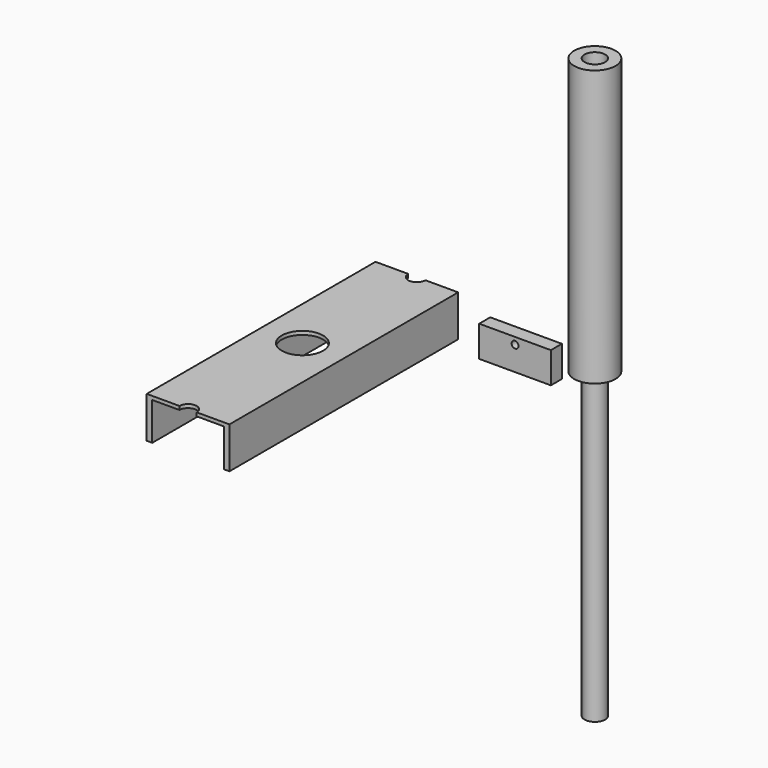
from build123d import *

# Parameters (mm, degrees)
F0_W     = 5.08
F0_H     = 3.302
F0_W_2   = 66.04
F0_H_2   = 34.798
F1_DEPTH = 263.525
F2_R     = 19.05
F3_DEPTH = 38.101
F4_W     = 66.04
F4_H     = 28.575
F4_R     = 3.175
F5_DEPTH = 12.7
F6_R     = 19.05
F6_R_2   = 9.525
F7_DEPTH = 254
F8_DEPTH = 6.35
F9_DEPTH = 279.4


with BuildPart() as f1:
    # F0 (on Front) → F1 (new body)
    with BuildSketch(Plane.XZ):
        with Locations((-124.0577634996, 54.2100830038)):
            Rectangle(F0_W, F0_H)
        with Locations((-88.4977634996, 54.2100830038)):
            Rectangle(F0_W_2, F0_H)
        with Locations((-124.0577634996, 35.1600830038)):
            Rectangle(F0_W, F0_H_2)
        with Locations((-52.9377634996, 35.1600830038)):
            Rectangle(F0_W, F0_H_2)
        with Locations((-52.9377634996, 54.2100830038)):
            Rectangle(F0_W, F0_H)
    extrude(amount=F1_DEPTH)

    # F2 (on face) → F3 (cut, through all)
    with BuildSketch(Plane.XY.offset(55.8610830038)):
        with Locations((-88.4977634996, -131.7625)):
            Circle(F2_R)
        with BuildLine():
            ThreePointArc((-96.4352634996, 0), (-88.4977634996, -7.9375), (-80.5602634996, 0))
            Line((-80.5602634996, 0), (-96.4352634996, 0))
        make_face()
        with BuildLine():
            Line((-96.4352634996, -263.525), (-80.5602634996, -263.525))
            ThreePointArc((-80.5602634996, -263.525), (-88.4977634996, -255.5875), (-96.4352634996, -263.525))
        make_face()
    extrude(amount=-F3_DEPTH, mode=Mode.SUBTRACT)


with BuildPart() as f5:
    # F4 (on Front) → F5 (new body)
    with BuildSketch(Plane.XZ):
        with Locations((12.147304602, 30.9224660316)):
            Rectangle(F4_W, F4_H)
        with Locations((12.147304602, 38.8599660316)):
            Circle(F4_R, mode=Mode.SUBTRACT)
    extrude(amount=F5_DEPTH)


with BuildPart() as f7:
    # F6 (on Top) → F7 (new body)
    with BuildSketch(Plane.XY):
        with Locations((36.3229177892, 49.0212365985)):
            Circle(F6_R)
        with Locations((36.3229177892, 49.0212365985)):
            Circle(F6_R_2, mode=Mode.SUBTRACT)
        with Locations((36.3229177892, 49.0212365985)):
            Circle(F6_R)
        with Locations((36.3229177892, 49.0212365985)):
            Circle(F6_R_2, mode=Mode.SUBTRACT)
    extrude(amount=F7_DEPTH)

    # F6 (on Top) → F8 (join)
    with BuildSketch(Plane.XY):
        with Locations((36.3229177892, 49.0212365985)):
            Circle(F6_R_2)
    extrude(amount=F8_DEPTH)


with BuildPart() as f9:
    # F6 (on Top) → F9 (new body)
    with BuildSketch(Plane.XY):
        with Locations((36.3229177892, 49.0212365985)):
            Circle(F6_R_2)
    extrude(amount=-F9_DEPTH)


solid = Compound([f1.part, f5.part, f7.part, f9.part])
